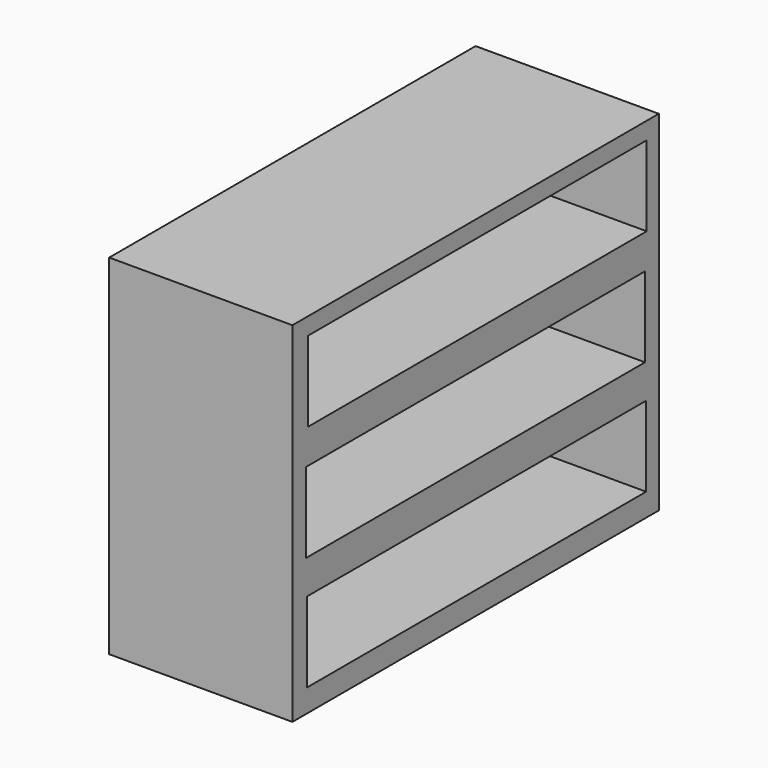
from build123d import *

# Parameters (mm, degrees)
F1_W     = 1016
F1_H     = 774.7
F1_W_2   = 939.8
F1_H_2   = 177.8
F2_DEPTH = 406.4


with BuildPart() as f2:
    # F1 (on face) → F2 (new body)
    with BuildSketch(Plane.YZ):
        with Locations((2390.829132, -355.343925)):
            Rectangle(F1_W, F1_H)
        with Locations((2393.900394, -602.993925)):
            Rectangle(F1_W_2, F1_H_2, mode=Mode.SUBTRACT)
        with Locations((2390.829132, -348.993925)):
            Rectangle(F1_W_2, F1_H_2, mode=Mode.SUBTRACT)
        with Locations((2395.403147, -94.993925)):
            Rectangle(F1_W_2, F1_H_2, mode=Mode.SUBTRACT)
    extrude(amount=F2_DEPTH)


solid = f2.part
